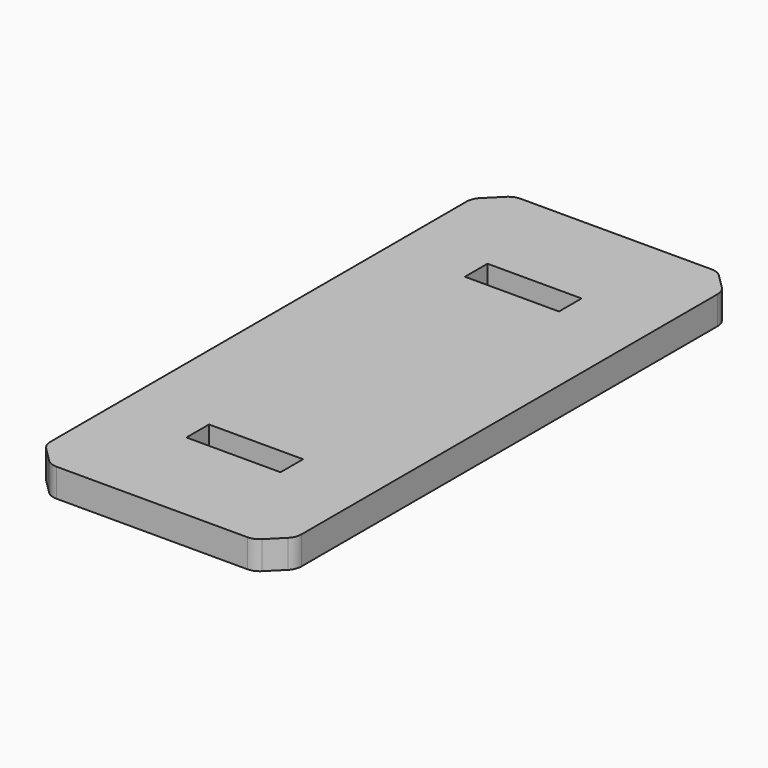
from build123d import *

# Parameters (mm, degrees)
SKETCH_W     = 160
SKETCH_H     = 370
PAD_DEPTH    = 18
SKETCH001_W  = 60
SKETCH001_H  = 18
POCKET_DEPTH = 12
CHAMFER_SIZE = 15
FILLET_R     = 10


with BuildPart() as part:
    # Sketch → Pad (new body)
    with BuildSketch(Plane.XY):
        Rectangle(SKETCH_W, SKETCH_H)
    extrude(amount=PAD_DEPTH)

    # Sketch001 → Pocket (cut)
    with BuildSketch(Plane.XY.offset(18)):
        with Locations((0, 111)):
            Rectangle(SKETCH001_W, SKETCH001_H)
    pocket = extrude(amount=-POCKET_DEPTH, mode=Mode.SUBTRACT)

    # Mirrored: Pocket across Sketch001 H_Axis
    add(pocket.mirror(Plane(origin=(0, 0, 18), x_dir=(0, 0, 1), z_dir=(0, 1, 0))), mode=Mode.SUBTRACT)

    # Chamfer
    chamfer_edges = [part.edges().sort_by_distance(p)[0] for p in [
        (-80, -185, 9),
        (-80, 185, 9),
        (80, 185, 9),
        (80, -185, 9),
    ]]
    chamfer(chamfer_edges, length=CHAMFER_SIZE)

    # Fillet
    fillet_edges = [part.edges().sort_by_distance(p)[0] for p in [
        (65, -185, 9),
        (80, -170, 9),
        (-65, -185, 9),
        (-80, -170, 9),
        (-80, 170, 9),
        (-65, 185, 9),
        (65, 185, 9),
        (80, 170, 9),
    ]]
    fillet(fillet_edges, radius=FILLET_R)


solid = part.part
